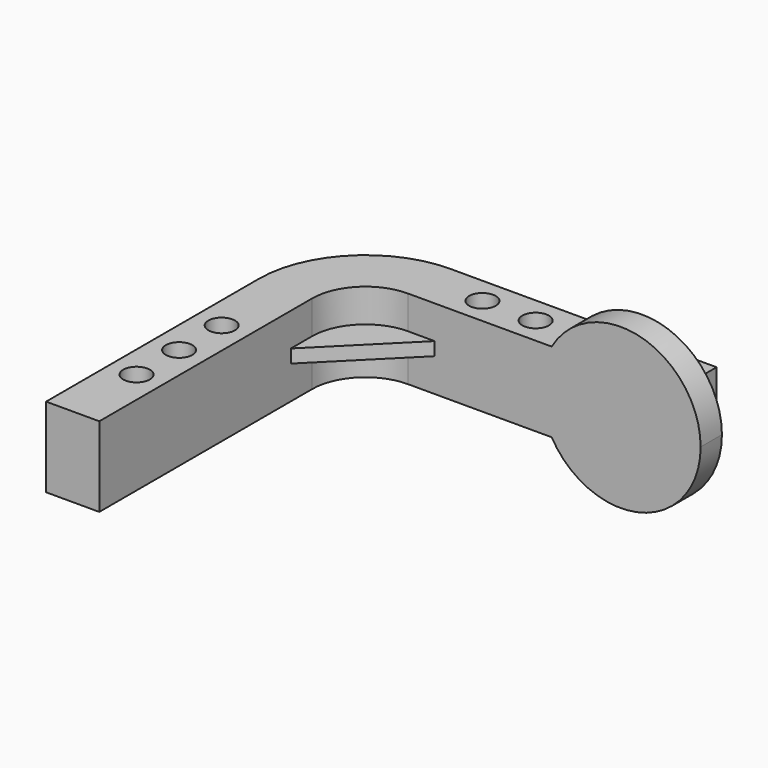
from build123d import *

# Parameters (mm, degrees)
F1_DEPTH = 15
F4_DEPTH = 1.25
F5_R     = 2.5
F6_DEPTH = 15
F8_DEPTH = 5


with BuildPart() as f1:
    # F0 (on Top) → F1 (new body)
    with BuildSketch(Plane.XY):
        with BuildLine():
            ThreePointArc((20, 41.3066352695), (5.8578643763, 35.4487708933), (0, 21.3066352695))
            Line((0, 21.3066352695), (0, -28.6933647305))
            Line((0, -28.6933647305), (10, -28.6933647305))
            Line((10, -28.6933647305), (10, 21.3066352695))
            ThreePointArc((10, 21.3066352695), (12.9289321881, 28.3777030814), (20, 31.3066352695))
            Line((20, 31.3066352695), (70, 31.3066352695))
            Line((70, 31.3066352695), (70, 41.3066352695))
            Line((70, 41.3066352695), (20, 41.3066352695))
        make_face()
    extrude(amount=F1_DEPTH)

    # F3 (on offset) → F4 (join, symmetric)
    with BuildSketch(Plane.XY.offset(7.5)):
        Polygon((10, 31.3066352695), (10, 16.3066352695), (25, 31.3066352695), align=None)
    extrude(amount=F4_DEPTH, both=True)

    # F5 (on face) → F6 (cut, through all)
    with BuildSketch(Plane.XY.offset(15)):
        with Locations((5, -13.6933647305)):
            Circle(F5_R)
        with Locations((5, -3.6933647305)):
            Circle(F5_R)
        with Locations((5, 6.3066352695)):
            Circle(F5_R)
        with Locations((30, 36.3066352695)):
            Circle(F5_R)
        with Locations((40, 36.3066352695)):
            Circle(F5_R)
    extrude(amount=-F6_DEPTH, mode=Mode.SUBTRACT)

    # F7 (on face) → F8 (join)
    with BuildSketch(Plane.XZ.offset(-31.3066352695)):
        with BuildLine():
            Line((70, 15), (47.0096189432, 15))
            ThreePointArc((47.0096189432, 15), (45, 7.5), (47.0096189432, 0))
            Line((47.0096189432, 0), (70, 0))
            Line((70, 0), (70, 15))
        make_face()
        with BuildLine():
            ThreePointArc((47.0096189432, 0), (63.8822856765, -6.9888873943), (75, 7.5))
            ThreePointArc((75, 7.5), (63.8822856765, 21.9888873943), (47.0096189432, 15))
            Line((47.0096189432, 15), (70, 15))
            Line((70, 15), (70, 0))
            Line((70, 0), (47.0096189432, 0))
        make_face()
    extrude(amount=-F8_DEPTH)


solid = f1.part
